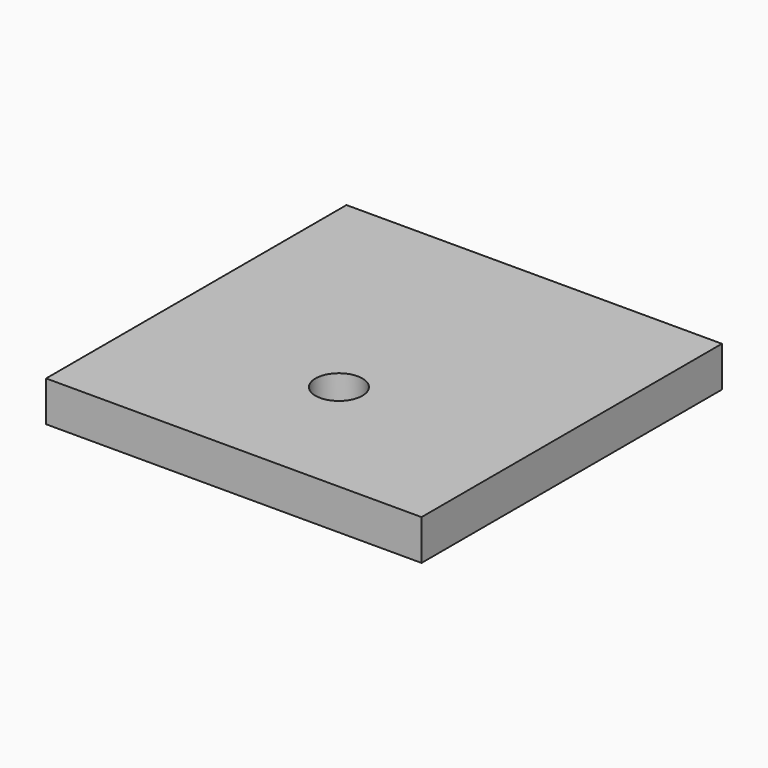
from build123d import *

# Parameters (mm, degrees)
F1_DEPTH = 21.844


with BuildPart() as f1:
    # F0 (on Top) → F1 (new body)
    with BuildSketch(Plane.XY):
        with BuildLine():
            ThreePointArc((12.7, -30.48), (-8.980256, -21.499744), (0, -43.18))
            ThreePointArc((0, -43.18), (8.980256, -39.460256), (12.7, -30.48))
        make_face()
        Polygon((0, -101.6), (101.6, -101.6), (101.6, 101.6), (-101.6, 101.6), (-101.6, -101.6), align=None)
        with BuildLine():
            ThreePointArc((12.7, -30.48), (8.980256, -39.460256), (0, -43.18))
            ThreePointArc((0, -43.18), (-8.980256, -21.499744), (12.7, -30.48))
        make_face(mode=Mode.SUBTRACT)
    extrude(amount=F1_DEPTH)


solid = f1.part
